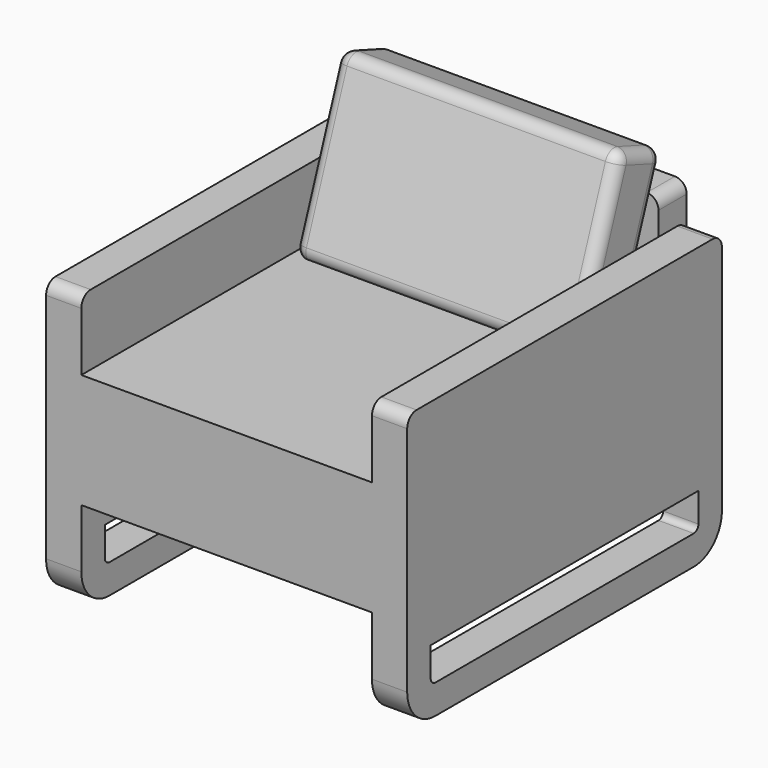
from build123d import *

# Parameters (mm, degrees)
F0_W      = 628.65
F0_H      = 850.9
F0_W_2    = 76.2
F1_DEPTH  = 247.65
F2_DEPTH  = 203.2
F4_DEPTH  = 152.4
F3_W      = 628.65
F3_H      = 76.2
F5_DEPTH  = 228.6
F6_R      = 76.2
F7_R      = 25.4
F9_DEPTH  = 781.051
F11_DEPTH = 304.8
F12_R     = 25.4


with BuildPart() as f1:
    # F0 (on Top) → F1 (new body)
    with BuildSketch(Plane.XY):
        Rectangle(F0_W, F0_H)
        with Locations((-352.425, 0)):
            Rectangle(F0_W_2, F0_H)
        with Locations((352.425, 0)):
            Rectangle(F0_W_2, F0_H)
    extrude(amount=F1_DEPTH)

    # F0 (on Top) → F2 (join)
    with BuildSketch(Plane.XY):
        with Locations((-352.425, 0)):
            Rectangle(F0_W_2, F0_H)
        with Locations((352.425, 0)):
            Rectangle(F0_W_2, F0_H)
    extrude(amount=-F2_DEPTH)

    # F3 (on face) → F4 (join)
    with BuildSketch(Plane.XY.offset(247.65)):
        Polygon((-314.325, 349.25), (-314.325, 425.45), (-390.525, 425.45), (-390.525, -425.45), (-314.325, -425.45), align=None)
        Polygon((390.525, -425.45), (390.525, 425.45), (314.325, 425.45), (314.325, 349.25), (314.325, -425.45), align=None)
    extrude(amount=F4_DEPTH)

    # F3 (on face) → F5 (join)
    with BuildSketch(Plane.XY.offset(247.65)):
        with Locations((0, 387.35)):
            Rectangle(F3_W, F3_H)
    extrude(amount=F5_DEPTH)

    # F6
    f6_edges = [f1.edges().sort_by_distance(p)[0] for p in [
        (-352.425, -425.45, -203.2),
        (352.425, -425.45, -203.2),
        (-352.425, 425.45, -203.2),
        (352.425, 425.45, -203.2),
    ]]
    fillet(f6_edges, radius=F6_R)

    # F7
    f7_edges = [f1.edges().sort_by_distance(p)[0] for p in [
        (352.425, 425.45, 400.05),
        (352.425, -425.45, 400.05),
        (-314.325, 387.35, 476.25),
        (314.325, 387.35, 476.25),
        (-352.425, 425.45, 400.05),
        (-352.425, -425.45, 400.05),
    ]]
    fillet(f7_edges, radius=F7_R)

    # F8 (on face) → F9 (cut, through all)
    with BuildSketch(Plane.YZ.offset(390.525)):
        with BuildLine():
            Line((361.95, -63.5), (-361.95, -63.5))
            Line((-361.95, -63.5), (-361.95, -127))
            ThreePointArc((-361.95, -127), (-358.2302561211, -135.9802561211), (-349.25, -139.7))
            Line((-349.25, -139.7), (349.25, -139.7))
            ThreePointArc((349.25, -139.7), (358.2302561211, -135.9802561211), (361.95, -127))
            Line((361.95, -127), (361.95, -63.5))
        make_face()
    extrude(amount=-F9_DEPTH, mode=Mode.SUBTRACT)


with BuildPart() as f11:
    # F10 (on Right) → F11 (new body, symmetric)
    with BuildSketch(Plane.YZ):
        Polygon((130.8958273423, 247.65), (250.2367901821, 204.2134417976), (377.3533944996, 553.4634417976), (258.0124316598, 596.9), align=None)
    extrude(amount=F11_DEPTH, both=True)

    # F12
    f12_edges = [f11.edges().sort_by_distance(p)[0] for p in [
        (-304.8, 194.45413, 422.275),
        (0, 130.895827, 247.65),
        (304.8, 194.45413, 422.275),
        (0, 258.012432, 596.9),
        (0, 377.353394, 553.463442),
        (-304.8, 317.682913, 575.181721),
        (304.8, 317.682913, 575.181721),
        (304.8, 190.566309, 225.931721),
        (304.8, 313.795092, 378.838442),
        (-304.8, 190.566309, 225.931721),
        (0, 250.23679, 204.213442),
        (-304.8, 313.795092, 378.838442),
    ]]
    fillet(f12_edges, radius=F12_R)


solid = Compound([f1.part, f11.part])
